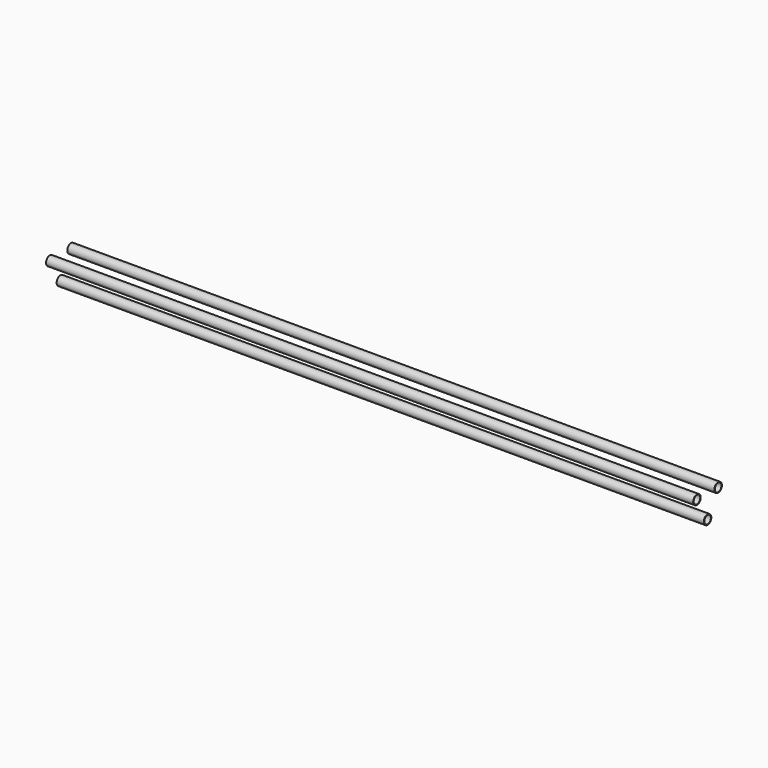
from build123d import *

# Parameters (mm, degrees)
F0_R     = 8
F0_R_2   = 7
F1_DEPTH = 1100


with BuildPart() as f1:
    # F0 (on Right) → F1 (new body)
    with BuildSketch(Plane.YZ):
        Circle(F0_R)
        Circle(F0_R_2, mode=Mode.SUBTRACT)
        with Locations((45, 0)):
            Circle(F0_R)
        with Locations((45, 0)):
            Circle(F0_R_2, mode=Mode.SUBTRACT)
        with Locations((22.5, -38.971143)):
            Circle(F0_R)
        with Locations((22.5, -38.971143)):
            Circle(F0_R_2, mode=Mode.SUBTRACT)
    extrude(amount=F1_DEPTH)


solid = f1.part
